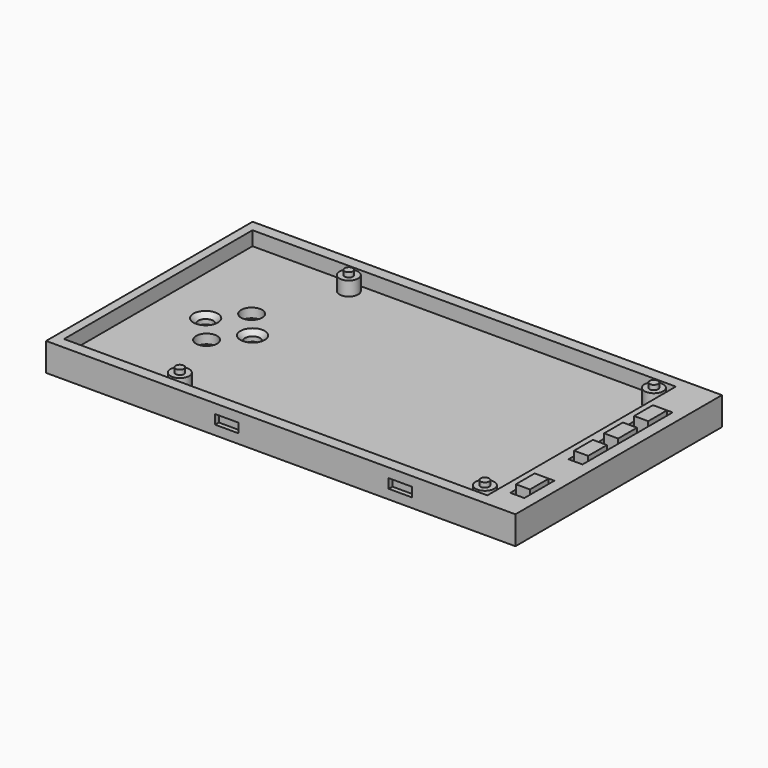
from build123d import *

# Parameters (mm, degrees)
SKETCH_W        = 100
SKETCH_H        = 55
PAD_DEPTH       = 6
SKETCH001_W     = 90.2
SKETCH001_H     = 50.2
POCKET_DEPTH    = 3
SKETCH002_R     = 2
PAD001_DEPTH    = 3
SKETCH003_R     = 0.9
PAD002_DEPTH    = 1
SKETCH004_W     = 3
SKETCH004_H     = 1.5
SKETCH004_H_2   = 3
POCKET001_DEPTH = 6
SKETCH005_W     = 3
SKETCH005_H     = 5
SKETCH005_H_2   = 21
POCKET002_DEPTH = 3
SKETCH006_W     = 5
SKETCH006_H     = 2
POCKET003_DEPTH = 1
SKETCH007_W     = 5
SKETCH007_H     = 2
POCKET004_DEPTH = 1
SKETCH008_R     = 16.5
POCKET005_DEPTH = 1
SKETCH009_R     = 2.25
SKETCH009_R_2   = 1.6
POCKET006_DEPTH = 2
SKETCH010_W     = 3
SKETCH010_H     = 5
PAD003_DEPTH    = 1
CHAMFER_SIZE    = 1


with BuildPart() as part:
    # Sketch → Pad (new body)
    with BuildSketch(Plane.XY):
        with Locations((-7, 0)):
            Rectangle(SKETCH_W, SKETCH_H)
    extrude(amount=PAD_DEPTH)

    # Sketch001 (on Face6 of Pad) → Pocket (cut)
    with BuildSketch(Plane.XY.offset(6)):
        with Locations((-10, 0)):
            Rectangle(SKETCH001_W, SKETCH001_H)
    extrude(amount=-POCKET_DEPTH, mode=Mode.SUBTRACT)

    # Sketch002 (on Face11 of Pocket) → Pad001 (join)
    with BuildSketch(Plane.XY.offset(3)):
        with Locations((-32.5, 22.5)):
            Circle(SKETCH002_R)
        with Locations((32.5, 22.5)):
            Circle(SKETCH002_R)
        with Locations((-32.5, -22.5)):
            Circle(SKETCH002_R)
        with Locations((32.5, -22.5)):
            Circle(SKETCH002_R)
    extrude(amount=PAD001_DEPTH)

    # Sketch003 (on Face19 of Pad001) → Pad002 (join)
    with BuildSketch(Plane.XY.offset(6)):
        with Locations((-32.5, 22.5)):
            Circle(SKETCH003_R)
        with Locations((32.5, 22.5)):
            Circle(SKETCH003_R)
        with Locations((-32.5, -22.5)):
            Circle(SKETCH003_R)
        with Locations((32.5, -22.5)):
            Circle(SKETCH003_R)
    extrude(amount=PAD002_DEPTH)

    # Sketch004 (on Face5 of Pad002) → Pocket001 (cut)
    with BuildSketch(Plane.XY.offset(6)):
        with Locations((39, 16.75)):
            Rectangle(SKETCH004_W, SKETCH004_H)
        with Locations((39, 9.5)):
            Rectangle(SKETCH004_W, SKETCH004_H_2)
        with Locations((39, 1.5)):
            Rectangle(SKETCH004_W, SKETCH004_H_2)
        with Locations((39, -5.75)):
            Rectangle(SKETCH004_W, SKETCH004_H)
        with Locations((39, -14.75)):
            Rectangle(SKETCH004_W, SKETCH004_H)
        with Locations((39, -21.25)):
            Rectangle(SKETCH004_W, SKETCH004_H)
    extrude(amount=-POCKET001_DEPTH, mode=Mode.SUBTRACT)

    # Sketch005 (on Face4 of Pocket001) → Pocket002 (cut)
    with BuildSketch(Plane(origin=(0, 0, 0), x_dir=(1, 0, 0), z_dir=(0, 0, -1))):
        with Locations((39, 18)):
            Rectangle(SKETCH005_W, SKETCH005_H)
        with Locations((39, -5.5)):
            Rectangle(SKETCH005_W, SKETCH005_H_2)
    extrude(amount=-POCKET002_DEPTH, mode=Mode.SUBTRACT)

    # Sketch006 (on Face6 of Pocket002) → Pocket003 (cut)
    with BuildSketch(Plane.XZ.offset(27.5)):
        with Locations((-18.5, 3)):
            Rectangle(SKETCH006_W, SKETCH006_H)
        with Locations((18.5, 3)):
            Rectangle(SKETCH006_W, SKETCH006_H)
    extrude(amount=-POCKET003_DEPTH, mode=Mode.SUBTRACT)

    # Sketch007 (on Face1 of Pocket003) → Pocket004 (cut)
    with BuildSketch(Plane(origin=(0, 27.5, 0), x_dir=(-1, 0, 0), z_dir=(0, 1, 0))):
        with Locations((-18.5, 3)):
            Rectangle(SKETCH007_W, SKETCH007_H)
        with Locations((18.5, 3)):
            Rectangle(SKETCH007_W, SKETCH007_H)
    extrude(amount=-POCKET004_DEPTH, mode=Mode.SUBTRACT)

    # Sketch008 (on Face3 of Pocket004) → Pocket005 (cut)
    with BuildSketch(Plane(origin=(0, 0, 0), x_dir=(1, 0, 0), z_dir=(0, 0, -1))):
        with Locations((-40, 0)):
            Circle(SKETCH008_R)
    extrude(amount=-POCKET005_DEPTH, mode=Mode.SUBTRACT)

    # Sketch009 (on Face70 of Pocket005) → Pocket006 (cut)
    with BuildSketch(Plane(origin=(0, 0, 1), x_dir=(1, 0, 0), z_dir=(0, 0, -1))):
        with Locations((-40, 6)):
            Circle(SKETCH009_R)
        with Locations((-40, -6)):
            Circle(SKETCH009_R)
        with Locations((-45, 0)):
            Circle(SKETCH009_R_2)
        with Locations((-35, 0)):
            Circle(SKETCH009_R_2)
    extrude(amount=-POCKET006_DEPTH, mode=Mode.SUBTRACT)

    # Sketch010 (on Face4 of Pocket006) → Pad003 (join)
    with BuildSketch(Plane.XY.offset(6)):
        with Locations((39, 13.5)):
            Rectangle(SKETCH010_W, SKETCH010_H)
        with Locations((39, -2.5)):
            Rectangle(SKETCH010_W, SKETCH010_H)
        with Locations((39, 5.5)):
            Rectangle(SKETCH010_W, SKETCH010_H)
        with Locations((39, -18)):
            Rectangle(SKETCH010_W, SKETCH010_H)
    extrude(amount=PAD003_DEPTH)

    # Chamfer
    chamfer_edges = [part.edges().sort_by_distance(p)[0] for p in [
        (-36.6, 0, 3),
        (-46.6, 0, 3),
    ]]
    chamfer(chamfer_edges, length=CHAMFER_SIZE)


solid = part.part
